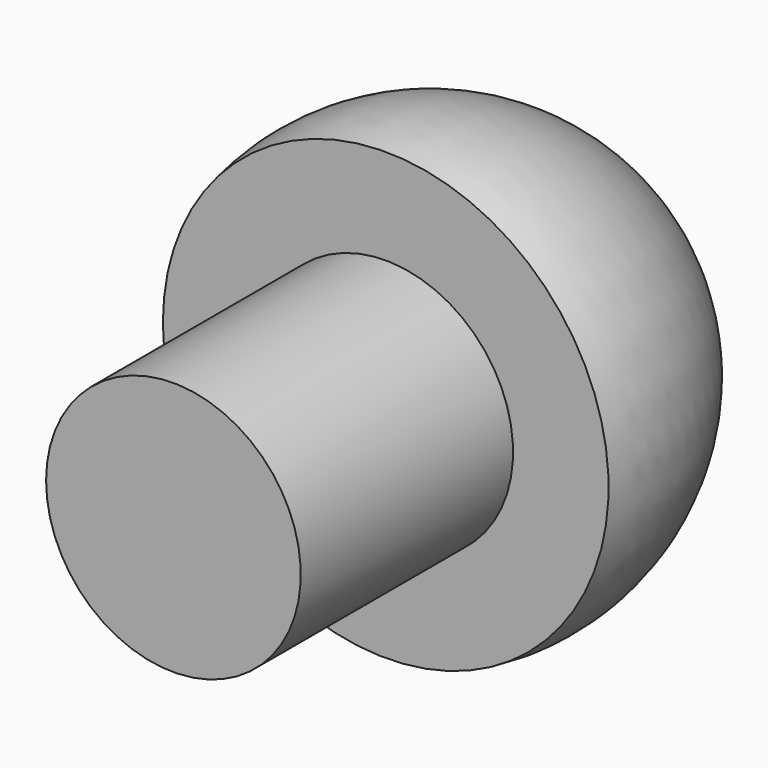
from build123d import *


with BuildPart() as f1:
    # F0 (on Top) → F1 (revolve)
    with BuildSketch(Plane.XY):
        with BuildLine():
            Line((-8, 0), (0, 0))
            Line((0, 0), (0, 35))
            ThreePointArc((0, 35), (-11.213058, 29.054672), (-14, 16.672728))
            Line((-14, 16.672728), (-8, 16.672728))
            Line((-8, 16.672728), (-8, 0))
        make_face()
    revolve(axis=Axis((0, 17.5, 0), (0, -1, 0)))


solid = f1.part
